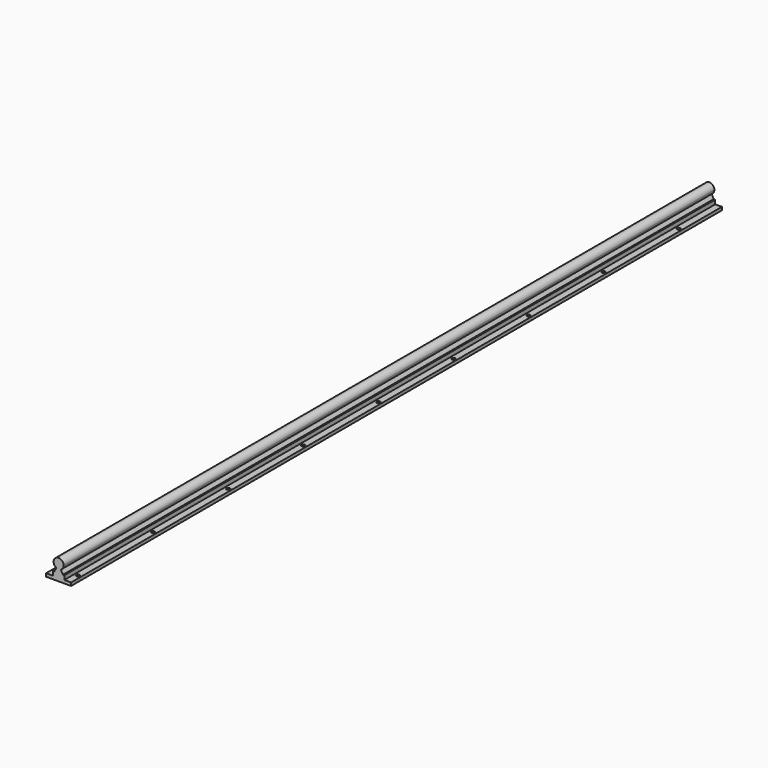
from build123d import *

# Parameters (mm, degrees)
F1_DEPTH = 650
F2_R     = 2.75
F3_DEPTH = 5.001


with BuildPart() as f1:
    # F0 (on Front) → F1 (new body, symmetric)
    with BuildSketch(Plane.XZ):
        with BuildLine():
            ThreePointArc((3.487119, -7.2), (6.778531, -4.248708), (8, 0))
            ThreePointArc((8, 0), (-4.248708, 6.778531), (-3.487119, -7.2))
            ThreePointArc((-3.487119, -7.2), (0, -8), (3.487119, -7.2))
        make_face()
        with BuildLine():
            ThreePointArc((3.487119, -7.2), (0, -8), (-3.487119, -7.2))
            Line((-3.487119, -7.2), (-7.008956, -13.3))
            Line((-7.008956, -13.3), (-9.25, -13.3))
            Line((-9.25, -13.3), (-9.25, -20))
            Line((-9.25, -20), (-20, -20))
            Line((-20, -20), (-20, -25))
            Line((-20, -25), (20, -25))
            Line((20, -25), (20, -20))
            Line((20, -20), (9.25, -20))
            Line((9.25, -20), (9.25, -13.3))
            Line((9.25, -13.3), (7.008956, -13.3))
            Line((7.008956, -13.3), (3.487119, -7.2))
        make_face()
    extrude(amount=F1_DEPTH, both=True)

    # F2 (on face) → F3 (cut, through all)
    with BuildSketch(Plane.XY.offset(-20)):
        with Locations((-15, -630)):
            Circle(F2_R)
        with Locations((15, -630)):
            Circle(F2_R)
        with Locations((-15, -480)):
            Circle(F2_R)
        with Locations((15, -480)):
            Circle(F2_R)
        with Locations((-15, -330)):
            Circle(F2_R)
        with Locations((15, -330)):
            Circle(F2_R)
        with Locations((-15, -180)):
            Circle(F2_R)
        with Locations((15, -180)):
            Circle(F2_R)
        with Locations((-15, -30)):
            Circle(F2_R)
        with Locations((15, -30)):
            Circle(F2_R)
        with Locations((-15, 120)):
            Circle(F2_R)
        with Locations((15, 120)):
            Circle(F2_R)
        with Locations((-15, 270)):
            Circle(F2_R)
        with Locations((15, 270)):
            Circle(F2_R)
        with Locations((-15, 420)):
            Circle(F2_R)
        with Locations((15, 420)):
            Circle(F2_R)
        with Locations((-15, 570)):
            Circle(F2_R)
        with Locations((15, 570)):
            Circle(F2_R)
    extrude(amount=-F3_DEPTH, mode=Mode.SUBTRACT)


solid = f1.part
